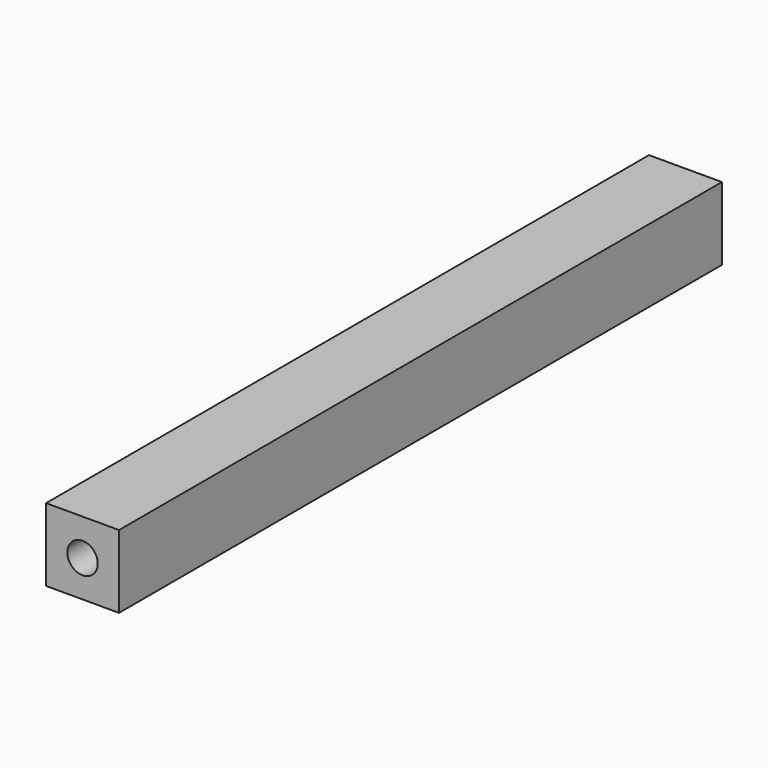
from build123d import *

# Parameters (mm, degrees)
F0_W     = 6
F0_H     = 6
F1_DEPTH = 62
F2_R     = 1.25
F3_DEPTH = 62.001


with BuildPart() as f1:
    # F0 (on Front) → F1 (new body)
    with BuildSketch(Plane.XZ):
        Rectangle(F0_W, F0_H)
    extrude(amount=F1_DEPTH)

    # F2 (on face) → F3 (cut, through all)
    with BuildSketch(Plane.XZ.offset(62)):
        Circle(F2_R)
    extrude(amount=-F3_DEPTH, mode=Mode.SUBTRACT)


solid = f1.part
